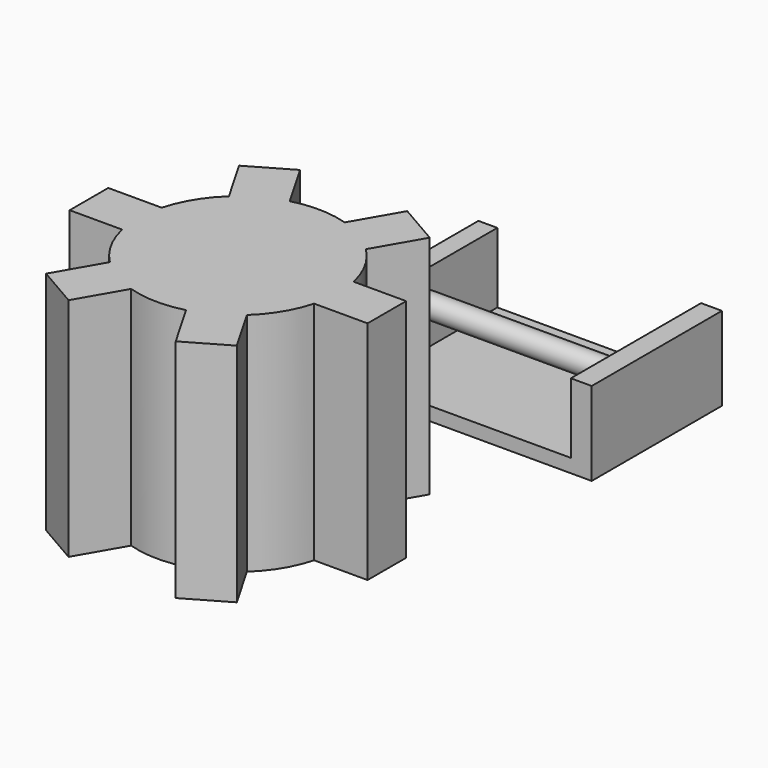
from build123d import *

# Parameters (mm, degrees)
F1_DEPTH = 500
F2_W     = 538.8212651014
F2_H     = 360.1605892181
F3_DEPTH = 30
F4_W     = 41.8321043253
F4_H     = 360.1605892181
F5_DEPTH = 155
F7_W     = 46.1477041245
F7_H     = 360.1605892181
F8_DEPTH = 155
F6_R     = 25.0375011005
F9_DEPTH = 450.8414566517


with BuildPart() as f1:
    # F0 (on Top) → F1 (new body)
    with BuildSketch(Plane.XY):
        with BuildLine():
            ThreePointArc((214.8888041559, -57.900887914), (220.6284181264, -29.2029465607), (222.5527150425, 0))
            ThreePointArc((222.5527150425, 0), (221.1962112685, 24.5346101098), (217.1432362758, 48.7701334059))
            Line((217.1432362758, 48.7701334059), (182.5777590275, 48.7701334059))
            Line((182.5777590275, 48.7701334059), (182.5777590275, -57.900887914))
            Line((182.5777590275, -57.900887914), (214.8888041559, -57.900887914))
        make_face()
        with BuildLine():
            ThreePointArc((217.1432362758, 48.7701334059), (221.1962112685, 24.5346101098), (222.5527150425, 0))
            ThreePointArc((222.5527150425, 0), (220.6284181264, -29.2029465607), (214.8888041559, -57.900887914))
            Line((214.8888041559, -57.900887914), (333.17938447, -57.900887914))
            Line((333.17938447, -57.900887914), (333.17938447, 48.7701334059))
            Line((333.17938447, 48.7701334059), (217.1432362758, 48.7701334059))
        make_face()
        with BuildLine():
            Line((182.5777590275, 48.7701334059), (217.1432362758, 48.7701334059))
            ThreePointArc((217.1432362758, 48.7701334059), (195.0445133565, 107.1790501091), (157.5880419131, 157.1487194309))
            Line((157.5880419131, 157.1487194309), (141.4325193489, 129.1665335268))
            Line((141.4325193489, 129.1665335268), (49.0527050383, 182.5020441868))
            Line((49.0527050383, 182.5020441868), (66.3354436624, 212.4366255778))
            ThreePointArc((66.3354436624, 212.4366255778), (4.7024765302, 222.5030284901), (-57.3007622427, 215.0496073449))
            Line((-57.3007622427, 215.0496073449), (-41.1452396785, 187.0674214408))
            Line((-41.1452396785, 187.0674214408), (-133.5250539892, 133.7319107809))
            Line((-133.5250539892, 133.7319107809), (-150.8077926134, 163.6664921719))
            ThreePointArc((-150.8077926134, 163.6664921719), (-190.3420368263, 115.3239783809), (-214.8888041559, 57.900887914))
            Line((-214.8888041559, 57.900887914), (-182.5777590275, 57.900887914))
            Line((-182.5777590275, 57.900887914), (-182.5777590275, -48.7701334059))
            Line((-182.5777590275, -48.7701334059), (-217.1432362758, -48.7701334059))
            ThreePointArc((-217.1432362758, -48.7701334059), (-195.0445133565, -107.1790501091), (-157.5880419131, -157.1487194309))
            Line((-157.5880419131, -157.1487194309), (-141.4325193489, -129.1665335268))
            Line((-141.4325193489, -129.1665335268), (-49.0527050383, -182.5020441868))
            Line((-49.0527050383, -182.5020441868), (-66.3354436624, -212.4366255778))
            ThreePointArc((-66.3354436624, -212.4366255778), (-4.7024765302, -222.5030284901), (57.3007622427, -215.0496073449))
            Line((57.3007622427, -215.0496073449), (41.1452396785, -187.0674214408))
            Line((41.1452396785, -187.0674214408), (133.5250539892, -133.7319107809))
            Line((133.5250539892, -133.7319107809), (150.8077926134, -163.6664921719))
            ThreePointArc((150.8077926134, -163.6664921719), (190.3420368263, -115.3239783809), (214.8888041559, -57.900887914))
            Line((214.8888041559, -57.900887914), (182.5777590275, -57.900887914))
            Line((182.5777590275, -57.900887914), (182.5777590275, 48.7701334059))
        make_face()
        with BuildLine():
            Line((141.4325193489, 129.1665335268), (157.5880419131, 157.1487194309))
            ThreePointArc((157.5880419131, 157.1487194309), (115.3239783809, 190.3420368263), (66.3354436624, 212.4366255778))
            Line((66.3354436624, 212.4366255778), (49.0527050383, 182.5020441868))
            Line((49.0527050383, 182.5020441868), (141.4325193489, 129.1665335268))
        make_face()
        with BuildLine():
            ThreePointArc((66.3354436624, 212.4366255778), (115.3239783809, 190.3420368263), (157.5880419131, 157.1487194309))
            Line((157.5880419131, 157.1487194309), (216.7333320702, 259.5913670113))
            Line((216.7333320702, 259.5913670113), (124.3535177595, 312.9268776712))
            Line((124.3535177595, 312.9268776712), (66.3354436624, 212.4366255778))
        make_face()
        with BuildLine():
            Line((208.8258667105, -264.1567442653), (150.8077926134, -163.6664921719))
            ThreePointArc((150.8077926134, -163.6664921719), (107.1790501091, -195.0445133565), (57.3007622427, -215.0496073449))
            Line((57.3007622427, -215.0496073449), (116.4460523998, -317.4922549253))
            Line((116.4460523998, -317.4922549253), (208.8258667105, -264.1567442653))
        make_face()
        with BuildLine():
            ThreePointArc((57.3007622427, -215.0496073449), (107.1790501091, -195.0445133565), (150.8077926134, -163.6664921719))
            Line((150.8077926134, -163.6664921719), (133.5250539892, -133.7319107809))
            Line((133.5250539892, -133.7319107809), (41.1452396785, -187.0674214408))
            Line((41.1452396785, -187.0674214408), (57.3007622427, -215.0496073449))
        make_face()
        with BuildLine():
            Line((-41.1452396785, 187.0674214408), (-57.3007622427, 215.0496073449))
            ThreePointArc((-57.3007622427, 215.0496073449), (-107.1790501091, 195.0445133565), (-150.8077926134, 163.6664921719))
            Line((-150.8077926134, 163.6664921719), (-133.5250539892, 133.7319107809))
            Line((-133.5250539892, 133.7319107809), (-41.1452396785, 187.0674214408))
        make_face()
        with BuildLine():
            ThreePointArc((-150.8077926134, 163.6664921719), (-107.1790501091, 195.0445133565), (-57.3007622427, 215.0496073449))
            Line((-57.3007622427, 215.0496073449), (-116.4460523998, 317.4922549253))
            Line((-116.4460523998, 317.4922549253), (-208.8258667105, 264.1567442653))
            Line((-208.8258667105, 264.1567442653), (-150.8077926134, 163.6664921719))
        make_face()
        with BuildLine():
            Line((-124.3535177595, -312.9268776712), (-66.3354436624, -212.4366255778))
            ThreePointArc((-66.3354436624, -212.4366255778), (-115.3239783809, -190.3420368263), (-157.5880419131, -157.1487194309))
            Line((-157.5880419131, -157.1487194309), (-216.7333320702, -259.5913670113))
            Line((-216.7333320702, -259.5913670113), (-124.3535177595, -312.9268776712))
        make_face()
        with BuildLine():
            ThreePointArc((-157.5880419131, -157.1487194309), (-115.3239783809, -190.3420368263), (-66.3354436624, -212.4366255778))
            Line((-66.3354436624, -212.4366255778), (-49.0527050383, -182.5020441868))
            Line((-49.0527050383, -182.5020441868), (-141.4325193489, -129.1665335268))
            Line((-141.4325193489, -129.1665335268), (-157.5880419131, -157.1487194309))
        make_face()
        with BuildLine():
            Line((-182.5777590275, 57.900887914), (-214.8888041559, 57.900887914))
            ThreePointArc((-214.8888041559, 57.900887914), (-222.5030284901, 4.7024765303), (-217.1432362758, -48.7701334059))
            Line((-217.1432362758, -48.7701334059), (-182.5777590275, -48.7701334059))
            Line((-182.5777590275, -48.7701334059), (-182.5777590275, 57.900887914))
        make_face()
        with BuildLine():
            ThreePointArc((-217.1432362758, -48.7701334059), (-222.5030284901, 4.7024765303), (-214.8888041559, 57.900887914))
            Line((-214.8888041559, 57.900887914), (-333.17938447, 57.900887914))
            Line((-333.17938447, 57.900887914), (-333.17938447, -48.7701334059))
            Line((-333.17938447, -48.7701334059), (-217.1432362758, -48.7701334059))
        make_face()
    extrude(amount=F1_DEPTH)


with BuildPart() as f3:
    # F2 (on Top) → F3 (new body)
    with BuildSketch(Plane.XY):
        with Locations((134.524025023, 653.6050438881)):
            Rectangle(F2_W, F2_H)
    extrude(amount=F3_DEPTH)

    # F4 (on face) → F5 (join)
    with BuildSketch(Plane.XY.offset(30)):
        with Locations((-113.9705553651, 653.6050438881)):
            Rectangle(F4_W, F4_H)
    extrude(amount=F5_DEPTH)

    # F7 (on face) → F8 (join)
    with BuildSketch(Plane.XY.offset(30)):
        with Locations((380.8608055115, 653.6050438881)):
            Rectangle(F7_W, F7_H)
    extrude(amount=F8_DEPTH)

    # F6 (on face) → F9 (join, through all)
    with BuildSketch(Plane.YZ.offset(-93.0545032024)):
        with Locations((639.6346688271, 115.6357377768)):
            Circle(F6_R)
    extrude(amount=F9_DEPTH)


solid = Compound([f1.part, f3.part])
